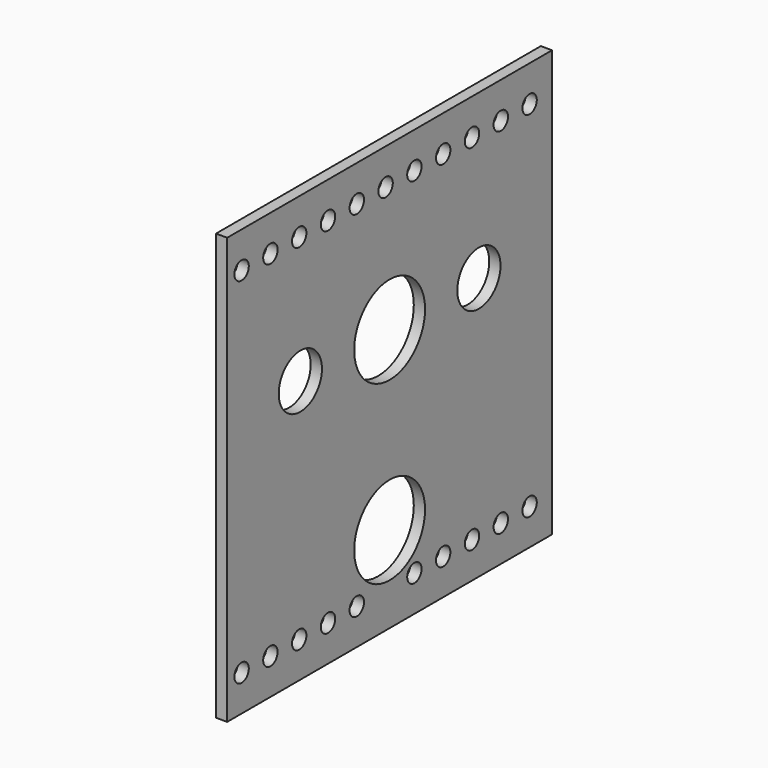
from build123d import *

# Parameters (mm, degrees)
F0_W     = 143.256
F0_H     = 150.368
F0_R     = 3.175
F0_R_2   = 15.621
F0_R_3   = 9.525
F1_DEPTH = 3.96875


with BuildPart() as f1:
    # F0 (on Right) → F1 (new body)
    with BuildSketch(Plane.YZ):
        Rectangle(F0_W, F0_H)
        with Locations((-65.278, -62.484)):
            Circle(F0_R, mode=Mode.SUBTRACT)
        with Locations((-52.578, -62.484)):
            Circle(F0_R, mode=Mode.SUBTRACT)
        with Locations((-39.878, -62.484)):
            Circle(F0_R, mode=Mode.SUBTRACT)
        with Locations((-27.178, -62.484)):
            Circle(F0_R, mode=Mode.SUBTRACT)
        with Locations((-14.478, -62.484)):
            Circle(F0_R, mode=Mode.SUBTRACT)
        with Locations((0, -44.704)):
            Circle(F0_R_2, mode=Mode.SUBTRACT)
        with Locations((10.922, -62.484)):
            Circle(F0_R, mode=Mode.SUBTRACT)
        with Locations((23.622, -62.484)):
            Circle(F0_R, mode=Mode.SUBTRACT)
        with Locations((36.322, -62.484)):
            Circle(F0_R, mode=Mode.SUBTRACT)
        with Locations((49.022, -62.484)):
            Circle(F0_R, mode=Mode.SUBTRACT)
        with Locations((61.722, -62.484)):
            Circle(F0_R, mode=Mode.SUBTRACT)
        with Locations((-39.37, 17.526)):
            Circle(F0_R_3, mode=Mode.SUBTRACT)
        with Locations((0, 17.526)):
            Circle(F0_R_2, mode=Mode.SUBTRACT)
        with Locations((-65.278, 62.484)):
            Circle(F0_R, mode=Mode.SUBTRACT)
        with Locations((-52.578, 62.484)):
            Circle(F0_R, mode=Mode.SUBTRACT)
        with Locations((-39.878, 62.484)):
            Circle(F0_R, mode=Mode.SUBTRACT)
        with Locations((-27.178, 62.484)):
            Circle(F0_R, mode=Mode.SUBTRACT)
        with Locations((-14.478, 62.484)):
            Circle(F0_R, mode=Mode.SUBTRACT)
        with Locations((-1.778, 62.484)):
            Circle(F0_R, mode=Mode.SUBTRACT)
        with Locations((39.37, 17.526)):
            Circle(F0_R_3, mode=Mode.SUBTRACT)
        with Locations((10.922, 62.484)):
            Circle(F0_R, mode=Mode.SUBTRACT)
        with Locations((23.622, 62.484)):
            Circle(F0_R, mode=Mode.SUBTRACT)
        with Locations((36.322, 62.484)):
            Circle(F0_R, mode=Mode.SUBTRACT)
        with Locations((49.022, 62.484)):
            Circle(F0_R, mode=Mode.SUBTRACT)
        with Locations((61.722, 62.484)):
            Circle(F0_R, mode=Mode.SUBTRACT)
    extrude(amount=F1_DEPTH)


solid = f1.part
